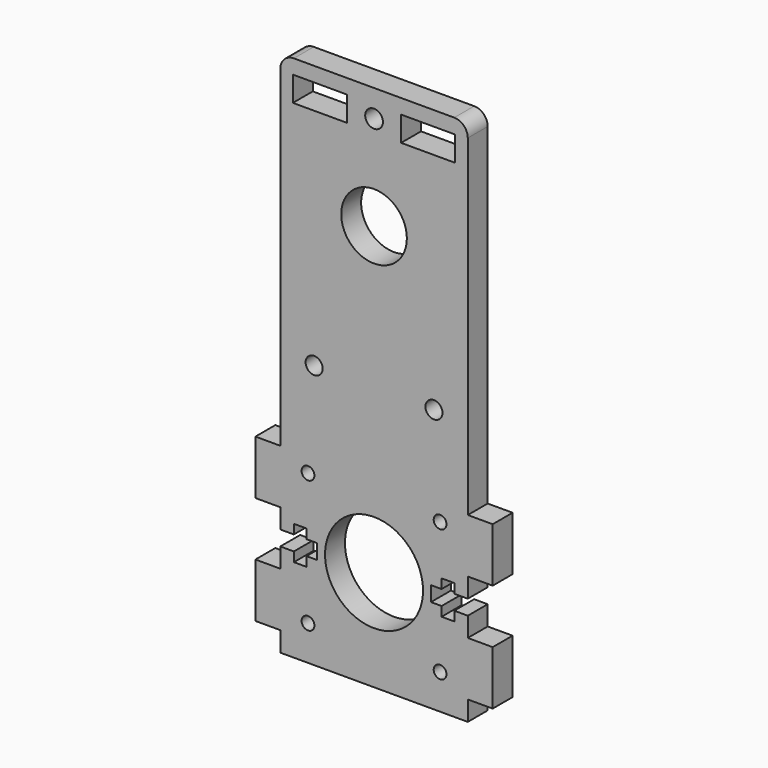
from build123d import *

# Parameters (mm, degrees)
F0_R     = 1.5
F0_R_2   = 11.5
F0_R_3   = 2
F0_W     = 12.7
F0_H     = 5.842
F0_R_4   = 7.7
F1_DEPTH = 5.842
F2_R     = 3.175
F4_DEPTH = 5.843
F5_R     = 2.0828
F6_DEPTH = 25.4


with BuildPart() as f1:
    # F0 (on Front) → F1 (new body)
    with BuildSketch(Plane.XZ):
        Polygon((22, 28.575), (-22, 28.575), (-22, -52.5018), (-27.842, -52.5018), (-27.842, -65.2018), (-22, -65.2018), (-22, -77.9018), (-27.842, -77.9018), (-27.842, -90.6018), (-22, -90.6018), (-22, -95.25), (22, -95.25), (22, -90.6018), (27.842, -90.6018), (27.842, -77.9018), (22, -77.9018), (22, -65.2018), (27.842, -65.2018), (27.842, -52.5018), (22, -52.5018), align=None)
        with Locations((-15.5, -87.0518)):
            Circle(F0_R, mode=Mode.SUBTRACT)
        with Locations((-15.5, -56.0518)):
            Circle(F0_R, mode=Mode.SUBTRACT)
        with Locations((0, -71.5518)):
            Circle(F0_R_2, mode=Mode.SUBTRACT)
        with Locations((15.5, -87.0518)):
            Circle(F0_R, mode=Mode.SUBTRACT)
        with Locations((15.5, -56.0518)):
            Circle(F0_R, mode=Mode.SUBTRACT)
        with Locations((-14.062533, -33.3375)):
            Circle(F0_R_3, mode=Mode.SUBTRACT)
        with Locations((-12.7, 22.225)):
            Rectangle(F0_W, F0_H, mode=Mode.SUBTRACT)
        with Locations((14.062533, -33.3375)):
            Circle(F0_R_3, mode=Mode.SUBTRACT)
        Circle(F0_R_4, mode=Mode.SUBTRACT)
        with Locations((12.7, 22.225)):
            Rectangle(F0_W, F0_H, mode=Mode.SUBTRACT)
    extrude(amount=F1_DEPTH)

    # F2
    f2_edges = [f1.edges().sort_by_distance(p)[0] for p in [
        (-22, -2.921, 28.575),
        (22, -2.921, 28.575),
    ]]
    fillet(f2_edges, radius=F2_R)

    # F3 (on face) → F4 (cut, through all)
    with BuildSketch(Plane.XZ.offset(5.842)):
        Polygon((-18.825, -69.7992), (-22, -69.7992), (-22, -73.3044), (-18.825, -73.3044), (-18.825, -75.52055), (-15.846875, -75.52055), (-15.846875, -73.3044), (-13.3545, -73.3044), (-13.3545, -69.7992), (-15.846875, -69.7992), (-15.846875, -67.58305), (-18.825, -67.58305), align=None)
        Polygon((22, -73.3044), (22, -69.7992), (18.825, -69.7992), (18.825, -67.58305), (15.846875, -67.58305), (15.846875, -69.7992), (13.3545, -69.7992), (13.3545, -73.3044), (15.846875, -73.3044), (15.846875, -75.52055), (18.825, -75.52055), (18.825, -73.3044), align=None)
    extrude(amount=-F4_DEPTH, mode=Mode.SUBTRACT)

    # F5 (on face) → F6 (cut)
    with BuildSketch(Plane.XZ.offset(5.842)):
        with Locations((0, 22.225)):
            Circle(F5_R)
    extrude(amount=-F6_DEPTH, mode=Mode.SUBTRACT)


solid = f1.part
